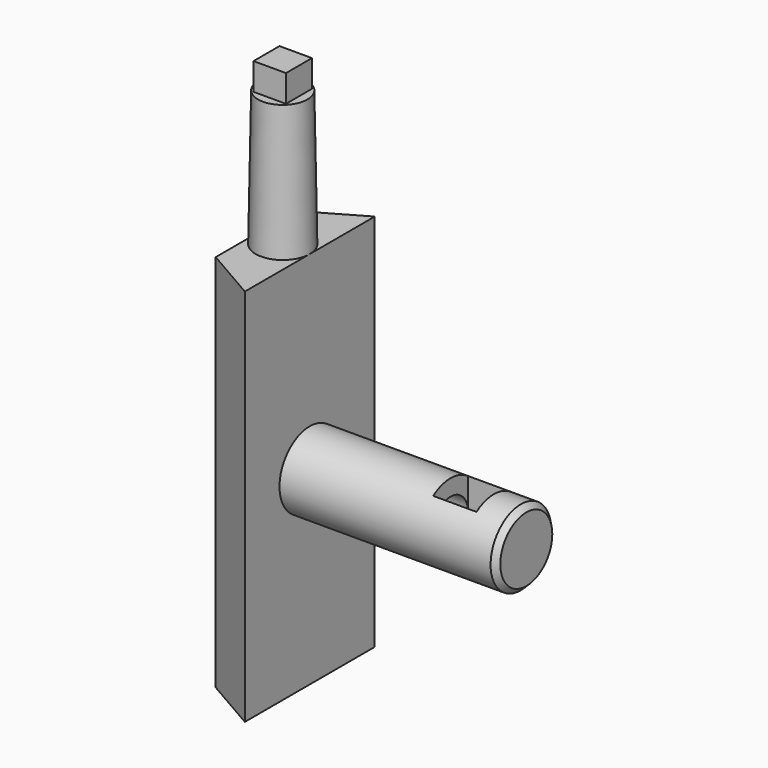
from build123d import *

# Parameters (mm, degrees)
F1_DEPTH      = 70
F3_DEPTH      = 40
F4_SIZE       = 1
F6_DEPTH      = 25
F6_DEPTH_BACK = 100
F7_R          = 4
F8_DEPTH      = 30
F8_DEPTH_BACK = 25
F10_R         = 5
F11_DEPTH     = 30
F11_TAPER     = 1
F13_START     = 25
F12_R         = 21.0146982342
F13_DEPTH     = 15


with BuildPart() as f1:
    # F0 (on Top) → F1 (new body)
    with BuildSketch(Plane.XY):
        Polygon((0, -15), (0, 0), (0, 15), (-10, 9.2264973081), (-10, -9.2264973081), align=None)
    extrude(amount=F1_DEPTH)

    # F2 (on Right) → F3 (join)
    with BuildSketch(Plane.YZ):
        with BuildLine():
            ThreePointArc((7, 35), (-4.9497474683, 39.9497474683), (0, 28))
            ThreePointArc((0, 28), (4.9497474683, 30.0502525317), (7, 35))
        make_face()
        with BuildLine():
            ThreePointArc((4, 35), (2.8284271247, 32.1715728753), (0, 31))
            ThreePointArc((0, 31), (-2.8284271247, 37.8284271247), (4, 35))
        make_face(mode=Mode.SUBTRACT)
        with BuildLine():
            ThreePointArc((4, 35), (-2.8284271247, 37.8284271247), (0, 31))
            ThreePointArc((0, 31), (2.8284271247, 32.1715728753), (4, 35))
        make_face()
    extrude(amount=F3_DEPTH)

    # F4
    f4_edges = [f1.edges().sort_by_distance(p)[0] for p in [
        (40, -7, 35),
    ]]
    chamfer(f4_edges, length=F4_SIZE)

    # F5 (on Top) → F6 (cut, two sides)
    with BuildSketch(Plane.XY) as f6_sk:
        Polygon((26, -4), (34, -4), (34, 4), (26, 4), (26, 0), align=None)
    extrude(amount=-F6_DEPTH, mode=Mode.SUBTRACT)
    extrude(f6_sk.sketch, amount=F6_DEPTH_BACK, mode=Mode.SUBTRACT)

    # F7 (on Right) → F8 (cut, two sides)
    with BuildSketch(Plane.YZ) as f8_sk:
        with Locations((0, 35)):
            Circle(F7_R)
    extrude(amount=F8_DEPTH, mode=Mode.SUBTRACT)
    extrude(f8_sk.sketch, amount=-F8_DEPTH_BACK, mode=Mode.SUBTRACT)

    # F10 (on offset) → F11 (join)
    with BuildSketch(Plane.XY.offset(70)):
        with Locations((-5, 0)):
            Circle(F10_R)
    extrude(amount=F11_DEPTH, taper=F11_TAPER)

    # F12 (on offset) → F13 (cut)
    with BuildSketch(Plane.XY.offset(70).offset(F13_START)):
        with Locations((-5, 0)):
            Circle(F12_R)
        Polygon((-2, -3), (-8, -3), (-8, 3), (-2, 3), (-2, 0), align=None, mode=Mode.SUBTRACT)
    extrude(amount=F13_DEPTH, mode=Mode.SUBTRACT)


solid = f1.part
